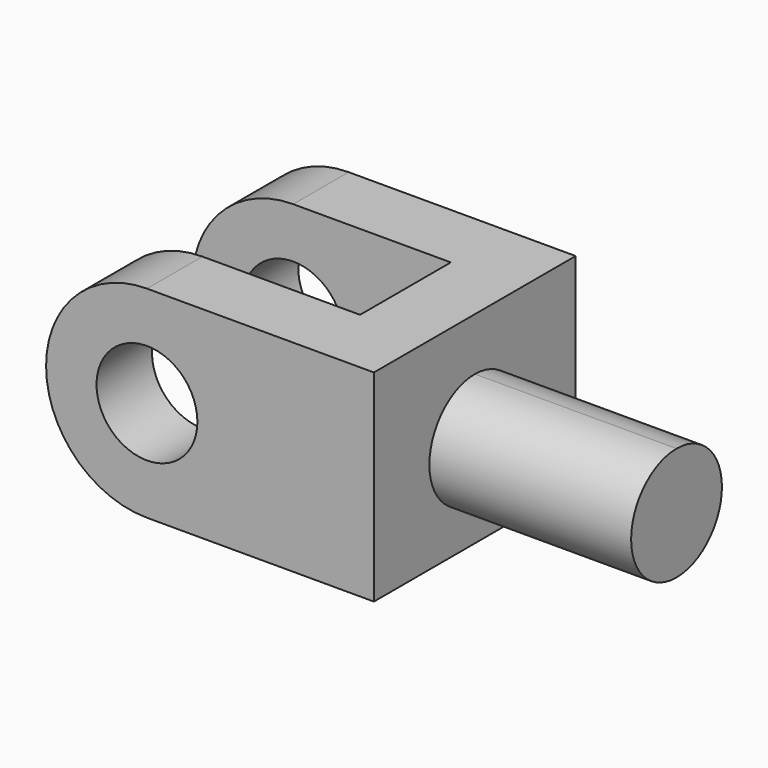
from build123d import *

# Parameters (mm, degrees)
F1_DEPTH = 32
F2_R     = 8
F3_DEPTH = 100
F5_DEPTH = 32


with BuildPart() as f1:
    # F0 (on Top) → F1 (new body)
    with BuildSketch(Plane.XY):
        Polygon((-2.677136, 43.172394), (-54.677136, 43.172394), (-54.677136, 32.172394), (-13.677136, 32.172394), (-13.677136, 14.172394), (-54.677136, 14.172394), (-54.677136, 3.172394), (-13.677136, 3.172394), (-2.677136, 3.172394), (-2.677136, 14.172394), (-2.677136, 32.172394), align=None)
    extrude(amount=F1_DEPTH)

    # F2 (on face) → F3 (cut)
    with BuildSketch(Plane.XZ.offset(-3.172394)):
        with BuildLine():
            Line((-54.677136, 0), (-38.677136, 0))
            ThreePointArc((-38.677136, 0), (-49.990845, 4.686292), (-54.677136, 16))
            Line((-54.677136, 16), (-54.677136, 0))
        make_face()
        with BuildLine():
            ThreePointArc((-54.677136, 16), (-49.990845, 27.313709), (-38.677136, 32))
            Line((-38.677136, 32), (-54.677136, 32))
            Line((-54.677136, 32), (-54.677136, 16))
        make_face()
        with Locations((-38.677136, 16)):
            Circle(F2_R)
    extrude(amount=-F3_DEPTH, mode=Mode.SUBTRACT)


with BuildPart() as f5:
    # F4 (on face) → F5 (new body)
    with BuildSketch(Plane.YZ.offset(-2.677136)):
        with BuildLine():
            ThreePointArc((23.172394, 5.642537), (29.536355, 8.278576), (32.172394, 14.642537))
            ThreePointArc((32.172394, 14.642537), (29.536355, 21.006498), (23.172394, 23.642537))
            Line((23.172394, 23.642537), (23.172394, 5.642537))
        make_face()
        with BuildLine():
            Line((23.172394, 5.642537), (23.172394, 23.642537))
            ThreePointArc((23.172394, 23.642537), (14.172394, 14.642537), (23.172394, 5.642537))
        make_face()
    extrude(amount=F5_DEPTH)


solid = Compound([f1.part, f5.part])
